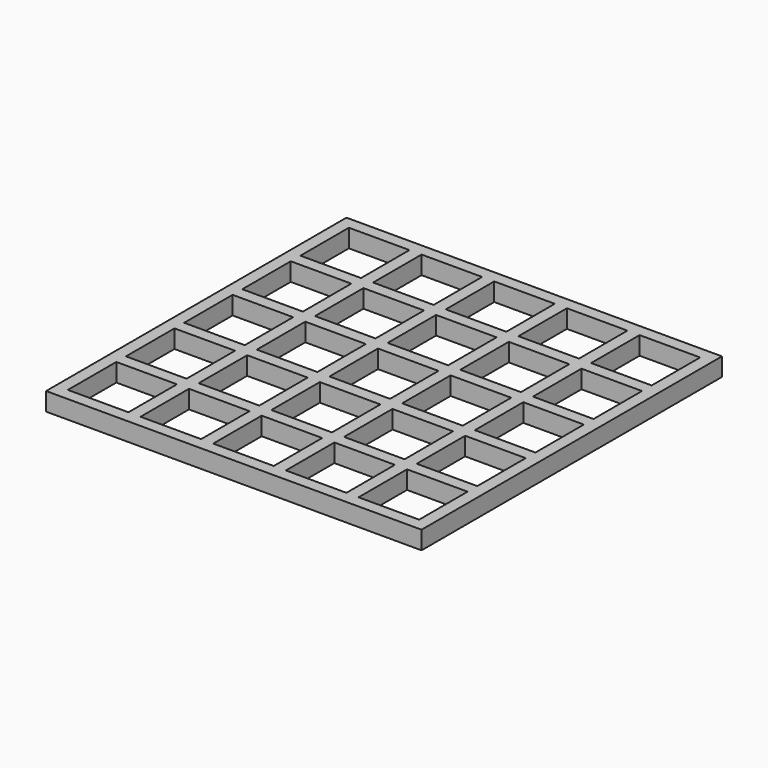
from build123d import *

# Parameters (mm, degrees)
BOX002_W         = 10
BOX002_H         = 10
BOX002_DEPTH     = 10
ARRAY001_X_COUNT = 5
ARRAY001_X_PITCH = 12
ARRAY001_Y_COUNT = 5
ARRAY001_Y_PITCH = 12
BOX003_W         = 62
BOX003_H         = 62
BOX003_DEPTH     = 3


with BuildPart() as array001:
    # Box002 → Box002 (new body)
    with BuildSketch(Plane.XY):
        with Locations((5, 5)):
            Rectangle(BOX002_W, BOX002_H)
    extrude(amount=BOX002_DEPTH)

    # Array001 X: Array001 ×5


with BuildPart() as array001_1:
    add(array001.part)
    with Locations(*[(i * ARRAY001_X_PITCH, 0, 0) for i in range(1, ARRAY001_X_COUNT)]):
        add(array001.part)

    # Array001 Y: Array001 ×5


with BuildPart() as array001_2:
    add(array001_1.part)
    with Locations(*[(0, i * ARRAY001_Y_PITCH, 0) for i in range(1, ARRAY001_Y_COUNT)]):
        add(array001_1.part)


with BuildPart() as cut001:
    # Box003 → Box003 (new body)
    with BuildSketch(Plane(origin=(-2, -2, 3), x_dir=(1, 0, 0), z_dir=(0, 0, 1))):
        with Locations((31, 31)):
            Rectangle(BOX003_W, BOX003_H)
    extrude(amount=BOX003_DEPTH)

    # Cut001: cut Array001
    add(array001_2.part, mode=Mode.SUBTRACT)


solid = cut001.part
